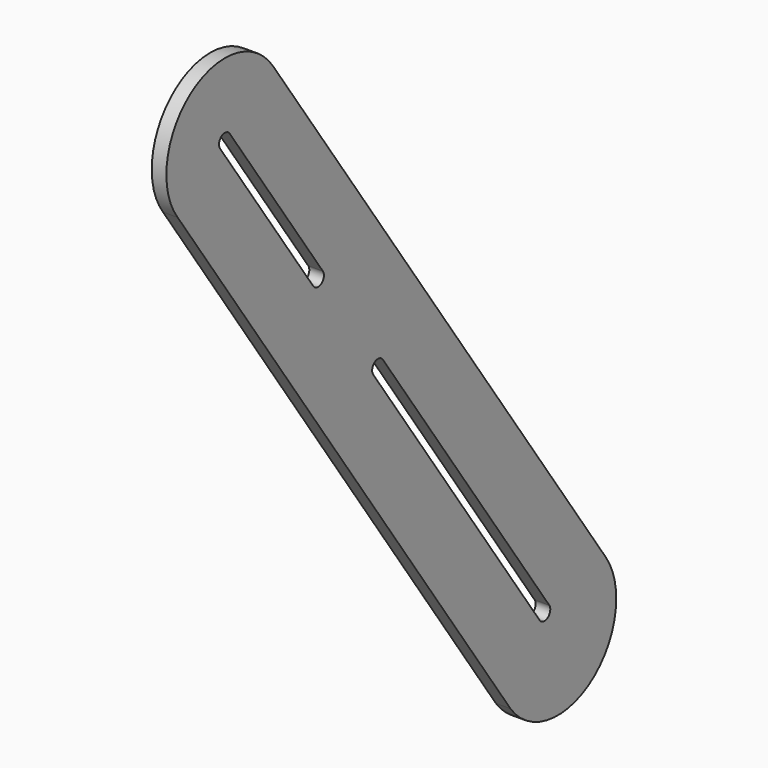
from build123d import *

# Parameters (mm, degrees)
F1_DEPTH = 10


with BuildPart() as f1:
    # F0 (on Right) → F1 (new body)
    with BuildSketch(Plane.YZ):
        with BuildLine():
            Line((211.704238, -218.156171), (-72.705537, 193.075004))
            ThreePointArc((-72.705537, 193.075004), (-142.817057, 205.373105), (-154.176408, 135.103384))
            Line((-154.176408, 135.103384), (130.233368, -276.127791))
            ThreePointArc((130.233368, -276.127791), (199.569523, -287.336227), (211.704238, -218.156171))
        make_face()
        with BuildLine():
            ThreePointArc((12.894399, -27.371879), (14.162364, -20.415424), (21.118819, -21.683389))
            Line((21.118819, -21.683389), (163.331062, -227.29389))
            ThreePointArc((163.331062, -227.29389), (162.063096, -234.250345), (155.106641, -232.982379))
            Line((155.106641, -232.982379), (12.894399, -27.371879))
        make_face(mode=Mode.SUBTRACT)
        with BuildLine():
            Line((-38.302009, 46.647901), (-117.940865, 161.789782))
            ThreePointArc((-117.940865, 161.789782), (-116.6729, 168.746237), (-109.716445, 167.478271))
            Line((-109.716445, 167.478271), (-30.077589, 52.336391))
            ThreePointArc((-30.077589, 52.336391), (-31.345554, 45.379936), (-38.302009, 46.647901))
        make_face(mode=Mode.SUBTRACT)
    extrude(amount=F1_DEPTH)


solid = f1.part
